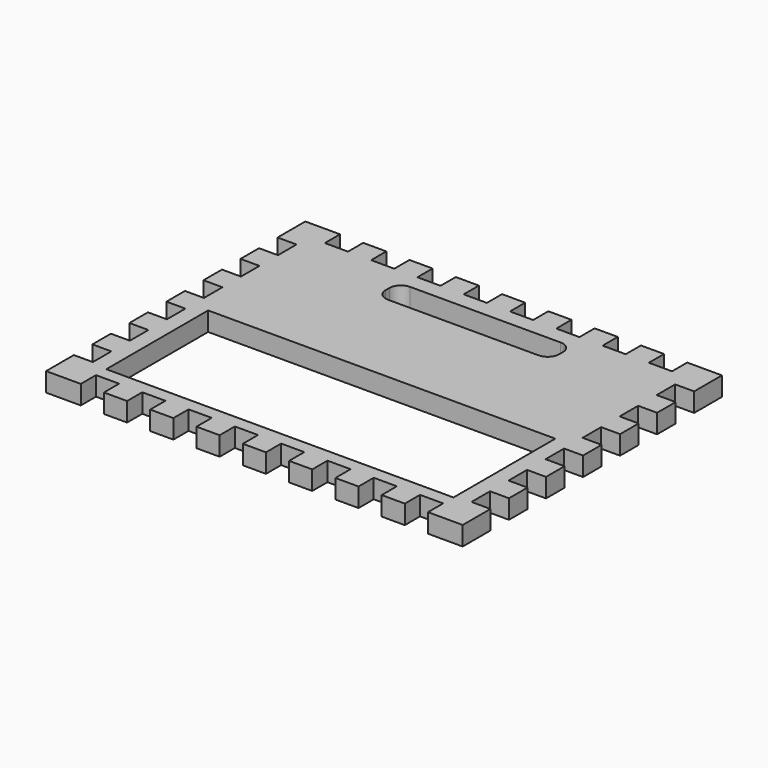
from build123d import *

# Parameters (mm, degrees)
F0_W     = 190.5
F0_H     = 69.85
F1_DEPTH = 10.414


with BuildPart() as f1:
    # F0 (on Top) → F1 (new body)
    with BuildSketch(Plane.XY):
        Polygon((19.05, 0), (0, 0), (0, -19.05), (10.414, -19.05), (10.414, -31.75), (0, -31.75), (0, -44.45), (10.414, -44.45), (10.414, -57.15), (0, -57.15), (0, -69.85), (10.414, -69.85), (10.414, -82.55), (0, -82.55), (0, -95.25), (10.414, -95.25), (10.414, -107.95), (0, -107.95), (0, -120.65), (10.414, -120.65), (10.414, -133.35), (0, -133.35), (0, -146.05), (10.414, -146.05), (10.414, -158.75), (0, -158.75), (0, -177.8), (19.05, -177.8), (19.05, -167.386), (31.75, -167.386), (31.75, -177.8), (44.45, -177.8), (44.45, -167.386), (57.15, -167.386), (57.15, -177.8), (69.85, -177.8), (69.85, -167.386), (82.55, -167.386), (82.55, -177.8), (95.25, -177.8), (95.25, -167.386), (107.95, -167.386), (107.95, -177.8), (120.65, -177.8), (120.65, -167.386), (133.35, -167.386), (133.35, -177.8), (146.05, -177.8), (146.05, -167.386), (158.75, -167.386), (158.75, -177.8), (171.45, -177.8), (171.45, -167.386), (184.15, -167.386), (184.15, -177.8), (196.85, -177.8), (196.85, -167.386), (209.55, -167.386), (209.55, -177.8), (228.6, -177.8), (228.6, -158.75), (218.186, -158.75), (218.186, -146.05), (228.6, -146.05), (228.6, -133.35), (218.186, -133.35), (218.186, -120.65), (228.6, -120.65), (228.6, -107.95), (218.186, -107.95), (218.186, -95.25), (228.6, -95.25), (228.6, -82.55), (218.186, -82.55), (218.186, -69.85), (228.6, -69.85), (228.6, -57.15), (218.186, -57.15), (218.186, -44.45), (228.6, -44.45), (228.6, -31.75), (218.186, -31.75), (218.186, -19.05), (228.6, -19.05), (228.6, 0), (209.55, 0), (209.55, -10.414), (196.85, -10.414), (196.85, 0), (184.15, 0), (184.15, -10.414), (171.45, -10.414), (171.45, 0), (158.75, 0), (158.75, -10.414), (146.05, -10.414), (146.05, 0), (133.35, 0), (133.35, -10.414), (120.65, -10.414), (120.65, 0), (107.95, 0), (107.95, -10.414), (95.25, -10.414), (95.25, 0), (82.55, 0), (82.55, -10.414), (69.85, -10.414), (69.85, 0), (57.15, 0), (57.15, -10.414), (44.45, -10.414), (44.45, 0), (31.75, 0), (31.75, -10.414), (19.05, -10.414), align=None)
        with Locations((114.3, -125.392927)):
            Rectangle(F0_W, F0_H, mode=Mode.SUBTRACT)
        with BuildLine():
            ThreePointArc((66.675, -25.697927), (68.534872, -21.207799), (73.025, -19.347927))
            Line((73.025, -19.347927), (155.575, -19.347927))
            ThreePointArc((155.575, -19.347927), (160.065128, -21.207799), (161.925, -25.697927))
            Line((161.925, -25.697927), (161.925, -28.237927))
            ThreePointArc((161.925, -28.237927), (160.065128, -32.728055), (155.575, -34.587927))
            Line((155.575, -34.587927), (73.025, -34.587927))
            ThreePointArc((73.025, -34.587927), (68.534872, -32.728055), (66.675, -28.237927))
            Line((66.675, -28.237927), (66.675, -25.697927))
        make_face(mode=Mode.SUBTRACT)
    extrude(amount=F1_DEPTH)


solid = f1.part
